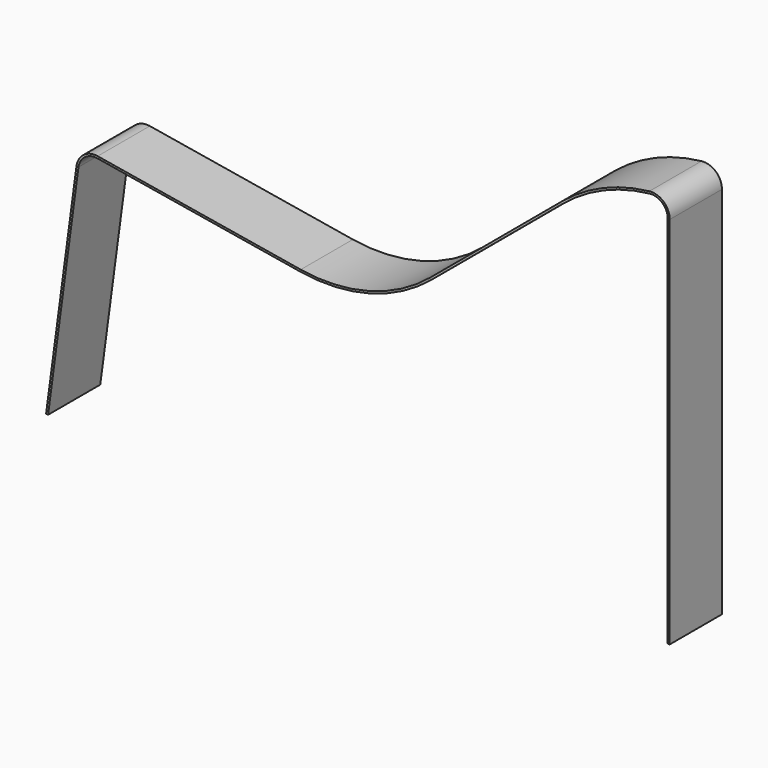
from build123d import *

# Parameters (mm, degrees)
F1_DEPTH      = 25.4
F1_DEPTH_BACK = 25.4


with BuildPart() as f1:
    # F0 (on Front) → F1 (new body, two sides)
    with BuildSketch(Plane.XZ) as f1_sk:
        with BuildLine():
            Line((-1.560986, 0.208131), (0, 0))
            Line((0, 0), (23.665896, 177.494217))
            ThreePointArc((23.665896, 177.494217), (28.705317, 186.028474), (38.342357, 188.34294))
            Line((38.342357, 188.34294), (196.490305, 161.984949))
            ThreePointArc((196.490305, 161.984949), (250.659549, 164.697858), (298.757135, 189.763554))
            Line((298.757135, 189.763554), (401.211842, 275.293424))
            ThreePointArc((401.211842, 275.293424), (432.73779, 294.602226), (468.488889, 304.013615))
            ThreePointArc((468.488889, 304.013615), (478.366667, 300.858274), (482.6, 291.392253))
            Line((482.6, 291.392253), (482.6, 0))
            Line((482.6, 0), (484.1748, 0))
            Line((484.1748, 0), (484.1748, 291.392253))
            ThreePointArc((484.1748, 291.392253), (479.416533, 302.032061), (468.313911, 305.578664))
            ThreePointArc((468.313911, 305.578664), (432.119499, 296.050574), (400.202629, 276.502342))
            Line((400.202629, 276.502342), (297.747922, 190.972472))
            ThreePointArc((297.747922, 190.972472), (250.246746, 166.217591), (196.749201, 163.538322))
            Line((196.749201, 163.538322), (38.601253, 189.896314))
            ThreePointArc((38.601253, 189.896314), (27.769219, 187.294853), (22.10491, 177.702348))
            Line((22.10491, 177.702348), (-1.560986, 0.208131))
        make_face()
    extrude(amount=F1_DEPTH)
    extrude(f1_sk.sketch, amount=-F1_DEPTH_BACK)


solid = f1.part
